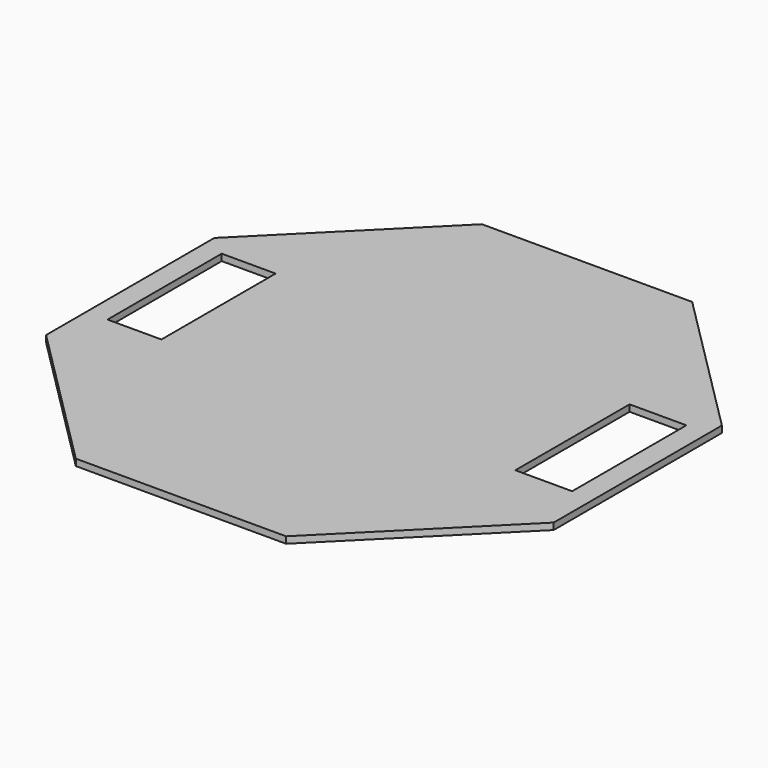
from build123d import *

# Parameters (mm, degrees)
F1_DEPTH = 9
F2_W     = 77.544987
F2_H     = 194.856629
F3_DEPTH = 9.001
F2_W_2   = 73.568299
F4_DEPTH = 9.001


with BuildPart() as f1:
    # F0 (on Top) → F1 (new body)
    with BuildSketch(Plane.XY):
        Polygon((143.506287, 346.454825), (-143.506287, 346.454825), (-346.454825, 143.506287), (-346.454825, -143.506287), (-143.506287, -346.454825), (143.506287, -346.454825), (346.454825, -143.506287), (346.454825, 143.506287), align=None)
    extrude(amount=F1_DEPTH)

    # F2 (on face) → F3 (cut, through all)
    with BuildSketch(Plane.XY):
        with Locations((277.869523, 22.715778)):
            Rectangle(F2_W, F2_H)
    extrude(amount=F3_DEPTH, mode=Mode.SUBTRACT)

    # F2 (on face) → F4 (cut, through all)
    with BuildSketch(Plane.XY):
        with Locations((-280.852013, 22.715778)):
            Rectangle(F2_W_2, F2_H)
    extrude(amount=F4_DEPTH, mode=Mode.SUBTRACT)


solid = f1.part
